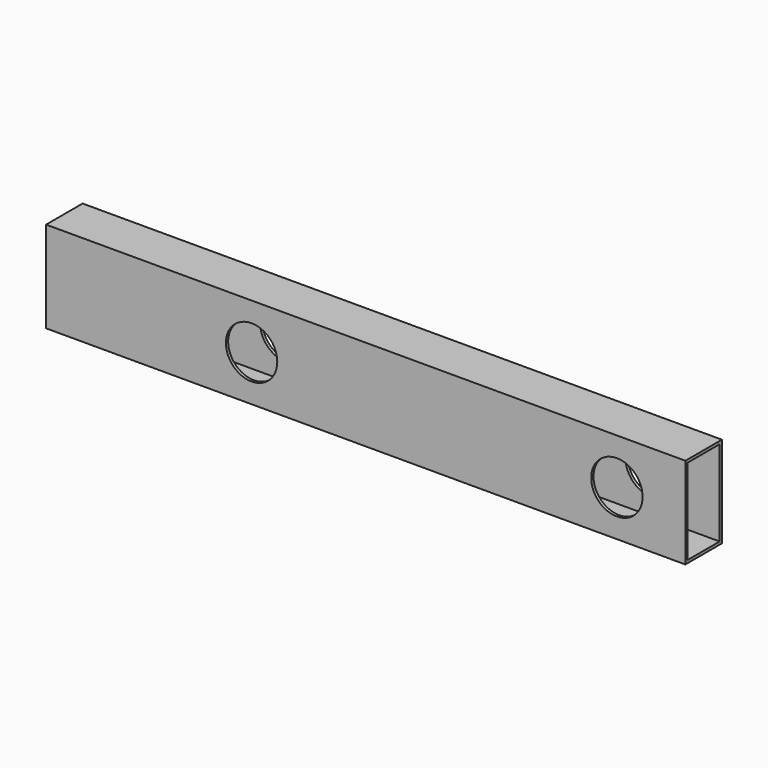
from build123d import *

# Parameters (mm, degrees)
F0_W     = 25.4
F0_H     = 50.8
F0_W_2   = 22.225
F0_H_2   = 47.625
F1_DEPTH = 355.6
F2_R     = 14.2875
F3_DEPTH = 25.4


with BuildPart() as f1:
    # F0 (on Right) → F1 (new body)
    with BuildSketch(Plane.YZ):
        with Locations((0, -2.033139)):
            Rectangle(F0_W, F0_H)
        with Locations((0, -2.033139)):
            Rectangle(F0_W_2, F0_H_2, mode=Mode.SUBTRACT)
    extrude(amount=F1_DEPTH)

    # F2 (on face) → F3 (cut)
    with BuildSketch(Plane.XZ.offset(12.7)):
        with Locations((114.3, -2.033139)):
            Circle(F2_R)
        with Locations((317.5, -2.033139)):
            Circle(F2_R)
    extrude(amount=-F3_DEPTH, mode=Mode.SUBTRACT)


solid = f1.part
